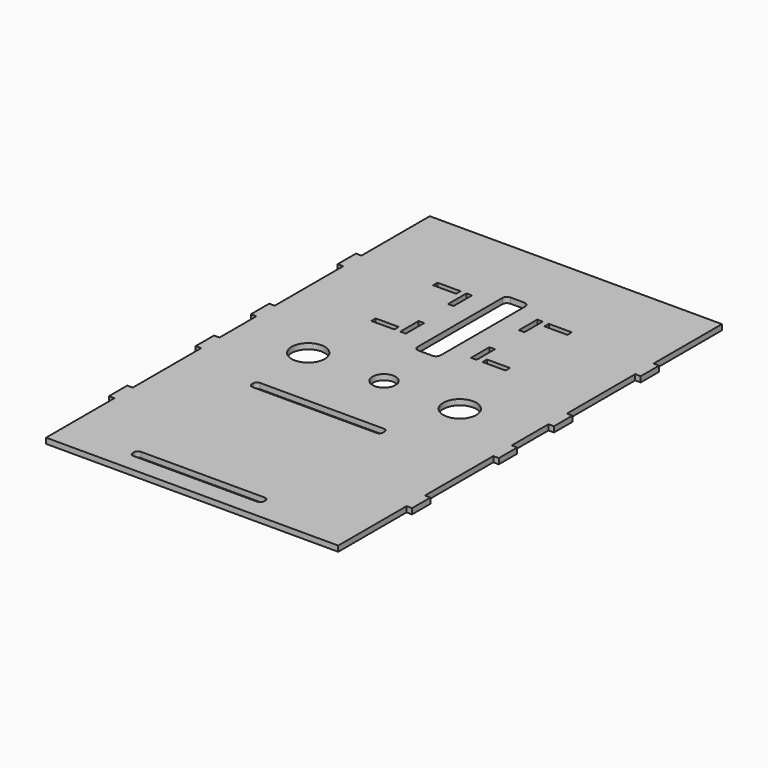
from build123d import *

# Parameters (mm, degrees)
F0_W     = 329.6
F0_H     = 521.4
F0_R     = 18
F0_W_2   = 6
F0_H_2   = 25
F0_R_2   = 12.5
F1_DEPTH = 6
F2_W     = 6
F2_H     = 92.85
F2_H_2   = 50
F3_DEPTH = 25
F5_W     = 25
F5_H     = 6
F6_DEPTH = 25
F7_DEPTH = 25


with BuildPart() as f1:
    # F0 (on Top) → F1 (new body)
    with BuildSketch(Plane.XY):
        with Locations((0, 234.753206)):
            Rectangle(F0_W, F0_H)
        with Locations((-82.4, 234.753206)):
            Circle(F0_R, mode=Mode.SUBTRACT)
        with Locations((-42.8, 326.553206)):
            Rectangle(F0_W_2, F0_H_2, mode=Mode.SUBTRACT)
        with Locations((-42.8, 391.553206)):
            Rectangle(F0_W_2, F0_H_2, mode=Mode.SUBTRACT)
        with Locations((0, 234.753206)):
            Circle(F0_R_2, mode=Mode.SUBTRACT)
        with Locations((34.2, 326.553206)):
            Rectangle(F0_W_2, F0_H_2, mode=Mode.SUBTRACT)
        with Locations((82.4, 234.753206)):
            Circle(F0_R, mode=Mode.SUBTRACT)
        with Locations((34.2, 391.553206)):
            Rectangle(F0_W_2, F0_H_2, mode=Mode.SUBTRACT)
    extrude(amount=F1_DEPTH)

    # F2 (on face) → F3 (cut)
    with BuildSketch(Plane.XY.offset(6)):
        with Locations((-161.8, 449.028206)):
            Rectangle(F2_W, F2_H)
        with Locations((-161.8, 331.178206)):
            Rectangle(F2_W, F2_H)
        with Locations((-161.8, 234.753206)):
            Rectangle(F2_W, F2_H_2)
        with Locations((-161.8, 138.328206)):
            Rectangle(F2_W, F2_H)
        with Locations((-161.8, 20.478206)):
            Rectangle(F2_W, F2_H)
        with Locations((161.8, 449.028206)):
            Rectangle(F2_W, F2_H)
        with Locations((161.8, 20.478206)):
            Rectangle(F2_W, F2_H)
        with Locations((161.8, 138.328206)):
            Rectangle(F2_W, F2_H)
        with Locations((161.8, 331.178206)):
            Rectangle(F2_W, F2_H)
        with Locations((161.8, 234.753206)):
            Rectangle(F2_W, F2_H_2)
    extrude(amount=-F3_DEPTH, mode=Mode.SUBTRACT)

    # F5 (on face) → F6 (cut)
    with BuildSketch(Plane.XY.offset(6)):
        with Locations((-64.8, 317.053206)):
            Rectangle(F5_W, F5_H)
        with Locations((-64.8, 401.053206)):
            Rectangle(F5_W, F5_H)
        with Locations((56.2, 401.053206)):
            Rectangle(F5_W, F5_H)
        with Locations((56.2, 317.053206)):
            Rectangle(F5_W, F5_H)
        with BuildLine():
            Line((3.2, 421.553206), (-11.8, 421.553206))
            ThreePointArc((-11.8, 421.553206), (-15.335534, 420.08874), (-16.8, 416.553206))
            Line((-16.8, 416.553206), (-16.8, 301.553206))
            ThreePointArc((-16.8, 301.553206), (-15.335534, 298.017672), (-11.8, 296.553206))
            Line((-11.8, 296.553206), (3.2, 296.553206))
            ThreePointArc((3.2, 296.553206), (6.735534, 298.017672), (8.2, 301.553206))
            Line((8.2, 301.553206), (8.2, 416.553206))
            ThreePointArc((8.2, 416.553206), (6.735534, 420.08874), (3.2, 421.553206))
        make_face()
    extrude(amount=-F6_DEPTH, mode=Mode.SUBTRACT)

    # F4 (on face) → F7 (cut)
    with BuildSketch(Plane.XY.offset(6)):
        with BuildLine():
            Line((54.8, 166.053206), (-79.8, 166.053206))
            ThreePointArc((-79.8, 166.053206), (-82.628427, 164.881633), (-83.8, 162.053206))
            Line((-83.8, 162.053206), (-83.8, 160.053206))
            ThreePointArc((-83.8, 160.053206), (-82.628427, 157.224779), (-79.8, 156.053206))
            Line((-79.8, 156.053206), (54.8, 156.053206))
            ThreePointArc((54.8, 156.053206), (57.628427, 157.224779), (58.8, 160.053206))
            Line((58.8, 160.053206), (58.8, 162.053206))
            ThreePointArc((58.8, 162.053206), (57.628427, 164.881633), (54.8, 166.053206))
        make_face()
        with BuildLine():
            Line((54.8, 4.053206), (-79.8, 4.053206))
            ThreePointArc((-79.8, 4.053206), (-82.628427, 2.881633), (-83.8, 0.053206))
            Line((-83.8, 0.053206), (-83.8, -1.946794))
            ThreePointArc((-83.8, -1.946794), (-82.628427, -4.775221), (-79.8, -5.946794))
            Line((-79.8, -5.946794), (54.8, -5.946794))
            ThreePointArc((54.8, -5.946794), (57.628427, -4.775221), (58.8, -1.946794))
            Line((58.8, -1.946794), (58.8, 0.053206))
            ThreePointArc((58.8, 0.053206), (57.628427, 2.881633), (54.8, 4.053206))
        make_face()
    extrude(amount=-F7_DEPTH, mode=Mode.SUBTRACT)


solid = f1.part
